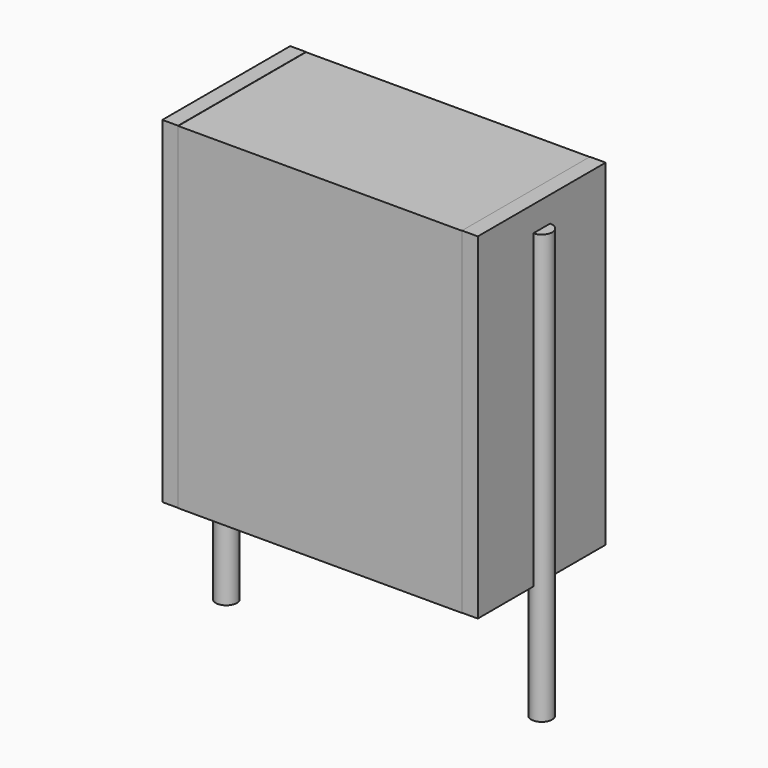
from build123d import *

# Parameters (mm, degrees)
SKETCH_W          = 6.75
SKETCH_H          = 3.8
PAD_DEPTH         = 8
SKETCH001_R       = 0.25
PAD001_DEPTH      = 7
PAD001_DEPTH_BACK = 3.2
SKETCH002_W       = 0.375
SKETCH002_H       = 3.8
PAD002_DEPTH      = 8


with BuildPart() as pad:
    # Sketch → Pad (new body)
    with BuildSketch(Plane.XY.offset(0.1)):
        with Locations((3.75, 0)):
            Rectangle(SKETCH_W, SKETCH_H)
    extrude(amount=PAD_DEPTH)


with BuildPart() as pad001:
    # Sketch001 → Pad001 (new body, two sides)
    with BuildSketch(Plane.XY.offset(0.5)) as pad001_sk:
        Circle(SKETCH001_R)
        with Locations((7.5, 0)):
            Circle(SKETCH001_R)
    extrude(amount=PAD001_DEPTH)
    extrude(pad001_sk.sketch, amount=-PAD001_DEPTH_BACK)


with BuildPart() as pad002:
    # Sketch002 → Pad002 (new body)
    with BuildSketch(Plane.XY.offset(0.105)):
        with Locations((0.1875, 0)):
            Rectangle(SKETCH002_W, SKETCH002_H)
        with Locations((7.3125, 0)):
            Rectangle(SKETCH002_W, SKETCH002_H)
    extrude(amount=PAD002_DEPTH)


solid = Compound([pad.part, pad001.part, pad002.part])
